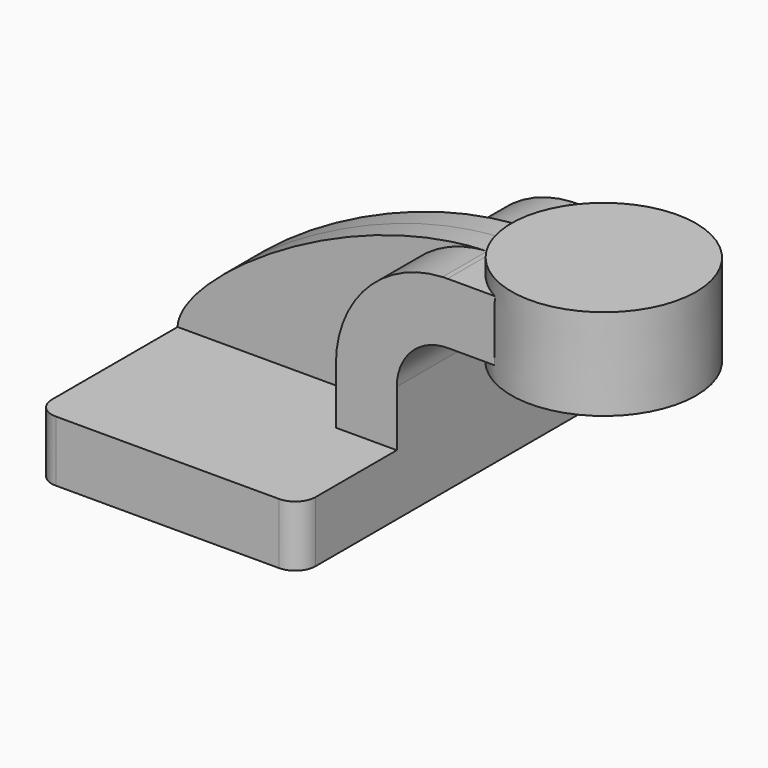
from build123d import *

# Parameters (mm, degrees)
F1_DEPTH = 63.5
F2_DEPTH = 25.4
F3_DEPTH = 7.9375
F5_R     = 6.35


with BuildPart() as f1:
    # F0 (on Front) → F1 (new body, symmetric)
    with BuildSketch(Plane.XZ):
        Polygon((22.225, 9.525), (-41.275, 9.525), (-41.275, -9.525), (41.275, -9.525), (41.275, 9.525), align=None)
    extrude(amount=F1_DEPTH, both=True)

    # F0 (on Front) → F2 (join, symmetric)
    with BuildSketch(Plane.XZ):
        with BuildLine():
            Line((22.225, 27.0002), (22.225, 9.525))
            Line((22.225, 9.525), (41.275, 9.525))
            Line((41.275, 9.525), (41.275, 27.0002))
            ThreePointArc((41.275, 27.0002), (45.9246798487, 38.2255201513), (57.15, 42.8752))
            Line((57.15, 42.8752), (63.8163211342, 42.8752))
            Line((63.8163211342, 42.8752), (63.8163211342, 61.9252))
            Line((63.8163211342, 61.9252), (57.15, 61.9252))
            add(Edge.make_bspline(
                [(55.5844693113, 61.8900945063), (56.1070749883, 61.9064212044), (56.6289469993, 61.918151508), (57.15, 61.9252)],
                knots=[110.2369029283, 110.2369029283, 110.2369029283, 110.2369029283, 111.5045361635, 111.5045361635, 111.5045361635, 111.5045361635], degree=3))
            ThreePointArc((55.5844693113, 61.8900945063), (31.9068644548, 51.1360598945), (22.225, 27.0002))
        make_face()
        Polygon((85.716497119, 61.9252), (63.8163211342, 61.9252), (63.8163211342, 42.8752), (85.6823946553, 42.8752), align=None)
    extrude(amount=F2_DEPTH, both=True)

    # F0 (on Front) → F3 (join, symmetric)
    with BuildSketch(Plane.XZ):
        with BuildLine():
            add(Edge.make_bspline(
                [(-41.275, 9.525), (-40.8583768694, 24.2901211008), (10.1372297725, 60.4702795479), (55.5844693113, 61.8900945063)],
                knots=[0, 0, 0, 0, 110.2369029283, 110.2369029283, 110.2369029283, 110.2369029283], degree=3))
            Line((-41.275, 9.525), (22.225, 9.525))
            Line((22.225, 9.525), (22.225, 27.0002))
            ThreePointArc((22.225, 27.0002), (31.9068644548, 51.1360598945), (55.5844693113, 61.8900945063))
        make_face()
    extrude(amount=F3_DEPTH, both=True)

    # F0 (on Front) → F4 (revolve)
    with BuildSketch(Plane.XZ):
        Polygon((85.725, 66.675), (85.716497119, 61.9252), (85.6823946553, 42.8752), (85.6738463044, 38.1), (114.6163211342, 38.1), (114.6163211342, 66.675), align=None)
    revolve(axis=Axis((85.6994231522, 0, 52.3875), (0.0017901527, 0, 0.9999983977)))

    # F5
    f5_edges = [f1.edges().sort_by_distance(p)[0] for p in [
        (-41.275, -63.5, 0),
        (41.275, -63.5, 0),
        (-41.275, 63.5, 0),
        (41.275, 63.5, 0),
    ]]
    fillet(f5_edges, radius=F5_R)


solid = f1.part
